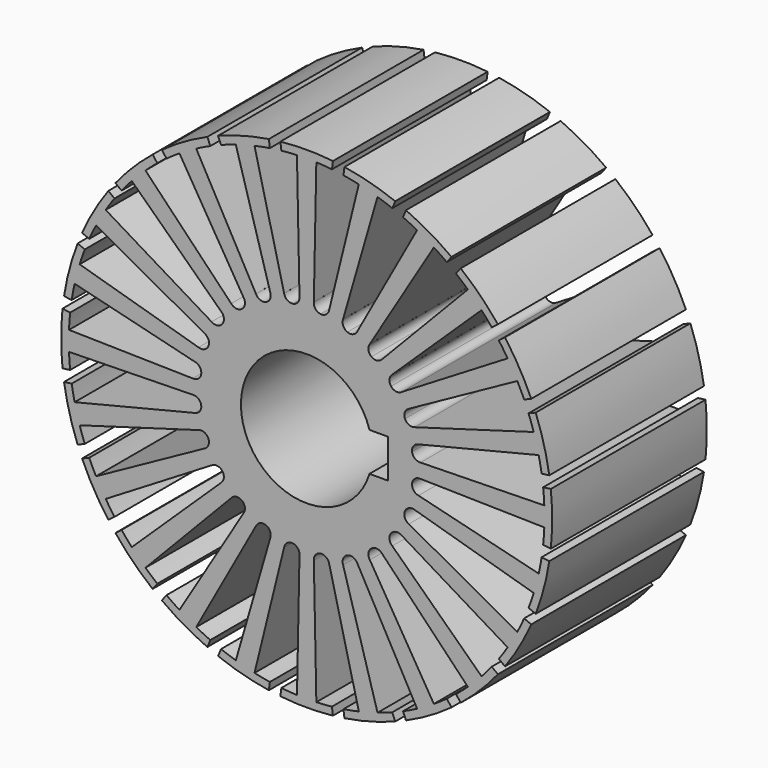
from build123d import *

# Parameters (mm, degrees)
F1_DEPTH = 50
F2_COUNT = 24
F5_DEPTH = 50
F6_DEPTH = 50


with BuildPart() as f1:
    # F0 (on Front) → F1 (new body)
    with BuildSketch(Plane.XZ):
        with BuildLine():
            ThreePointArc((-2.2189452677, 16.8545626434), (-11.2088788567, -12.7812767271), (17, 0))
            ThreePointArc((17, 0), (12.7812767271, 11.2088788567), (2.2189452677, 16.8545626434))
            Line((2.2189452677, 16.8545626434), (0, 0))
            Line((0, 0), (-2.2189452677, 16.8545626434))
        make_face()
        with BuildLine():
            Line((0, 0), (2.2189452677, 16.8545626434))
            ThreePointArc((2.2189452677, 16.8545626434), (0, 17), (-2.2189452677, 16.8545626434))
            Line((-2.2189452677, 16.8545626434), (0, 0))
        make_face()
        with BuildLine():
            ThreePointArc((-2.2189452677, 16.8545626434), (0, 17), (2.2189452677, 16.8545626434))
            Line((2.2189452677, 16.8545626434), (3.5894702861, 27.2647336878))
            ThreePointArc((3.5894702861, 27.2647336878), (2.2846829276, 28.0033782982), (1.8599233063, 29.4413091641))
            Line((1.8599233063, 29.4413091641), (1.8540318311, 29.4416807599))
            Line((1.8540318311, 29.4416807599), (2.5, 61.4491659829))
            ThreePointArc((2.5, 61.4491659829), (4.5213528869, 61.3335745581), (6.5378055, 61.1515093783))
            Line((6.5378055, 61.1515093783), (6.7989331193, 63.1349705665))
            ThreePointArc((6.7989331193, 63.1349705665), (0, 63.5), (-6.7989331193, 63.1349705665))
            Line((-6.7989331193, 63.1349705665), (-6.5378055, 61.1515093783))
            ThreePointArc((-6.5378055, 61.1515093783), (-4.5245926751, 61.3333356432), (-2.5064917867, 61.4489015274))
            Line((-2.5064917867, 61.4489015274), (-1.8599233063, 29.4413091641))
            ThreePointArc((-1.8599233063, 29.4413091641), (-2.2846829276, 28.0033782982), (-3.5894702861, 27.2647336878))
            Line((-3.5894702861, 27.2647336878), (-2.2189452677, 16.8545626434))
        make_face()
    extrude(amount=F1_DEPTH)


with BuildPart() as f2_1:
    # F2: instance of F1
    add(f1.part.rotate(Axis((0, 0, 0), (0, 1, 0)), 1 * 360 / F2_COUNT))


with BuildPart() as f2_2:
    # F2: instance of F1
    add(f1.part.rotate(Axis((0, 0, 0), (0, 1, 0)), 2 * 360 / F2_COUNT))


with BuildPart() as f2_3:
    # F2: instance of F1
    add(f1.part.rotate(Axis((0, 0, 0), (0, 1, 0)), 3 * 360 / F2_COUNT))


with BuildPart() as f2_4:
    # F2: instance of F1
    add(f1.part.rotate(Axis((0, 0, 0), (0, 1, 0)), 4 * 360 / F2_COUNT))


with BuildPart() as f2_5:
    # F2: instance of F1
    add(f1.part.rotate(Axis((0, 0, 0), (0, 1, 0)), 5 * 360 / F2_COUNT))


with BuildPart() as f2_6:
    # F2: instance of F1
    add(f1.part.rotate(Axis((0, 0, 0), (0, 1, 0)), 6 * 360 / F2_COUNT))


with BuildPart() as f2_7:
    # F2: instance of F1
    add(f1.part.rotate(Axis((0, 0, 0), (0, 1, 0)), 7 * 360 / F2_COUNT))


with BuildPart() as f2_8:
    # F2: instance of F1
    add(f1.part.rotate(Axis((0, 0, 0), (0, 1, 0)), 8 * 360 / F2_COUNT))


with BuildPart() as f2_9:
    # F2: instance of F1
    add(f1.part.rotate(Axis((0, 0, 0), (0, 1, 0)), 9 * 360 / F2_COUNT))


with BuildPart() as f2_10:
    # F2: instance of F1
    add(f1.part.rotate(Axis((0, 0, 0), (0, 1, 0)), 10 * 360 / F2_COUNT))


with BuildPart() as f2_11:
    # F2: instance of F1
    add(f1.part.rotate(Axis((0, 0, 0), (0, 1, 0)), 11 * 360 / F2_COUNT))


with BuildPart() as f2_12:
    # F2: instance of F1
    add(f1.part.rotate(Axis((0, 0, 0), (0, 1, 0)), 12 * 360 / F2_COUNT))


with BuildPart() as f2_13:
    # F2: instance of F1
    add(f1.part.rotate(Axis((0, 0, 0), (0, 1, 0)), 13 * 360 / F2_COUNT))


with BuildPart() as f2_14:
    # F2: instance of F1
    add(f1.part.rotate(Axis((0, 0, 0), (0, 1, 0)), 14 * 360 / F2_COUNT))


with BuildPart() as f2_15:
    # F2: instance of F1
    add(f1.part.rotate(Axis((0, 0, 0), (0, 1, 0)), 15 * 360 / F2_COUNT))


with BuildPart() as f2_16:
    # F2: instance of F1
    add(f1.part.rotate(Axis((0, 0, 0), (0, 1, 0)), 16 * 360 / F2_COUNT))


with BuildPart() as f2_17:
    # F2: instance of F1
    add(f1.part.rotate(Axis((0, 0, 0), (0, 1, 0)), 17 * 360 / F2_COUNT))


with BuildPart() as f2_18:
    # F2: instance of F1
    add(f1.part.rotate(Axis((0, 0, 0), (0, 1, 0)), 18 * 360 / F2_COUNT))


with BuildPart() as f2_19:
    # F2: instance of F1
    add(f1.part.rotate(Axis((0, 0, 0), (0, 1, 0)), 19 * 360 / F2_COUNT))


with BuildPart() as f2_20:
    # F2: instance of F1
    add(f1.part.rotate(Axis((0, 0, 0), (0, 1, 0)), 20 * 360 / F2_COUNT))


with BuildPart() as f2_21:
    # F2: instance of F1
    add(f1.part.rotate(Axis((0, 0, 0), (0, 1, 0)), 21 * 360 / F2_COUNT))


with BuildPart() as f2_22:
    # F2: instance of F1
    add(f1.part.rotate(Axis((0, 0, 0), (0, 1, 0)), 22 * 360 / F2_COUNT))


with BuildPart() as f2_23:
    # F2: instance of F1
    add(f1.part.rotate(Axis((0, 0, 0), (0, 1, 0)), 23 * 360 / F2_COUNT))


with BuildPart() as f1_1:
    add(f1.part)

    # F3: union F2_1, F2_2, F2_3, F2_4, F2_6, F2_8, F2_9, F2_11, F2_12, F2_13, F2_14, F2_17, F2_18, F2_20, F2_21, F2_22, F2_23, F2_16, F2_15, F2_7, F2_5, F2_10, F2_19
    add(f2_1.part)
    add(f2_2.part)
    add(f2_3.part)
    add(f2_4.part)
    add(f2_6.part)
    add(f2_8.part)
    add(f2_9.part)
    add(f2_11.part)
    add(f2_12.part)
    add(f2_13.part)
    add(f2_14.part)
    add(f2_17.part)
    add(f2_18.part)
    add(f2_20.part)
    add(f2_21.part)
    add(f2_22.part)
    add(f2_23.part)
    add(f2_16.part)
    add(f2_15.part)
    add(f2_7.part)
    add(f2_5.part)
    add(f2_10.part)
    add(f2_19.part)

    # F4 (on face) → F5 (cut)
    with BuildSketch(Plane.XZ.offset(50)):
        with BuildLine():
            Line((21, 5), (16.2480768093, 5))
            ThreePointArc((16.2480768093, 5), (-17, 0), (16.2480768093, -5))
            Line((16.2480768093, -5), (21, -5))
            Line((21, -5), (21, 5))
        make_face()
    extrude(amount=-F5_DEPTH, mode=Mode.SUBTRACT)

    # F4 (on face) → F6 (cut)
    with BuildSketch(Plane.XZ.offset(50)):
        with BuildLine():
            Line((21, 5), (16.2480768093, 5))
            ThreePointArc((16.2480768093, 5), (-17, 0), (16.2480768093, -5))
            Line((16.2480768093, -5), (21, -5))
            Line((21, -5), (21, 5))
        make_face()
    extrude(amount=-F6_DEPTH, mode=Mode.SUBTRACT)


solid = f1_1.part
